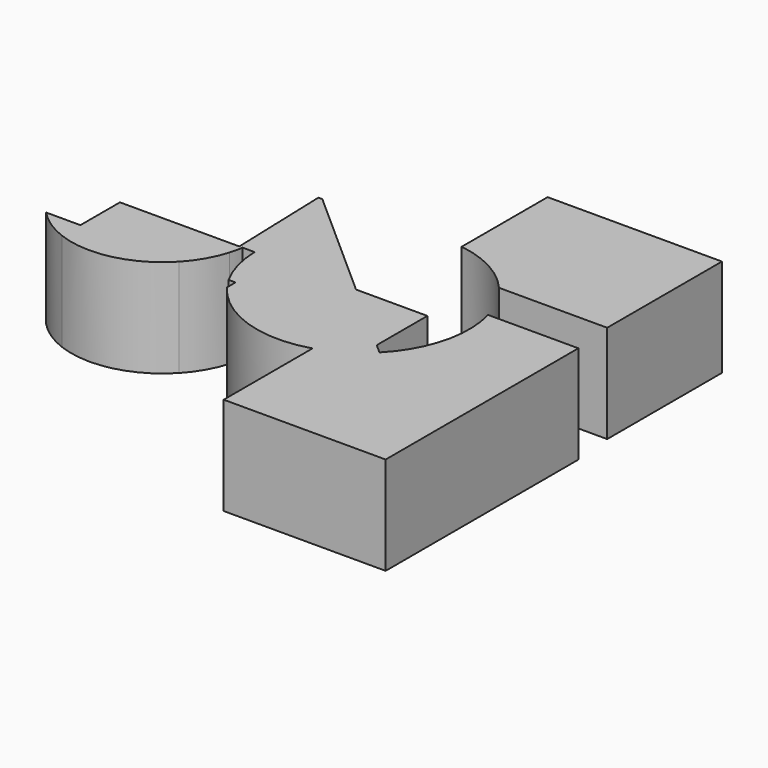
from build123d import *

# Parameters (mm, degrees)
F1_DEPTH = 25.4


with BuildPart() as f1:
    # F0 (on Top) → F1 (new body)
    with BuildSketch(Plane.XY):
        with BuildLine():
            Line((13.2460994646, 45.5441685695), (13.2460994646, 33.7760651119))
            ThreePointArc((13.2460994646, 33.7760651119), (22.6737645437, 30.6819062002), (30.3930181569, 24.4475007057))
            Line((30.3930181569, 24.4475007057), (58.4073029459, 24.4475007057))
            Line((58.4073029459, 24.4475007057), (58.4073029459, 61.6076998413))
            Line((58.4073029459, 61.6076998413), (13.2460994646, 61.6076998413))
            Line((13.2460994646, 61.6076998413), (13.2460994646, 45.5441685695))
        make_face()
    extrude(amount=F1_DEPTH)


with BuildPart() as f1b:
    # F0 (on Top) → F1, piece 2 (new body)
    with BuildSketch(Plane.XY):
        with BuildLine():
            Line((-22.3447246047, 17.3264372072), (-22.3572407322, 17.7158277661))
            Line((-22.3572407322, 17.7158277661), (-22.49079062, 17.7128031157))
            ThreePointArc((-22.49079062, 17.7128031157), (-22.4169140994, 17.5199390524), (-22.3447246047, 17.3264372072))
        make_face()
        with BuildLine():
            Line((-52.895501256, -12.9677942328), (-52.895501256, -7.0231002755))
            Line((-52.895501256, -7.0231002755), (-61.7882507086, -7.0231002755))
            ThreePointArc((-61.7882507086, -7.0231002755), (-57.6823790196, -10.5048104309), (-52.895501256, -12.9677942328))
        make_face()
        Polygon((26.7589017749, 5.7785003446), (8.2760952747, 5.7785003446), (26.7589017749, -10.6169944338), align=None)
        with BuildLine():
            Line((-21.7892645666, 32.4485003948), (-22.8307910154, 32.4485003948))
            Line((-22.8307910154, 32.4485003948), (-22.3572407322, 17.7158277661))
            Line((-22.3572407322, 17.7158277661), (-15.5672661641, 17.8696077435))
            ThreePointArc((-15.5672661641, 17.8696077435), (-13.9489846164, 20.9138140588), (-11.9630481341, 23.7319843068))
            Line((-11.9630481341, 23.7319843068), (-21.7892645666, 32.4485003948))
        make_face()
        with BuildLine():
            Line((-5.6085911059, 18.0951527453), (-11.9630481341, 23.7319843068))
            ThreePointArc((-11.9630481341, 23.7319843068), (-13.9489846164, 20.9138140588), (-15.5672661641, 17.8696077435))
            Line((-15.5672661641, 17.8696077435), (-5.6085911059, 18.0951527453))
        make_face()
        with BuildLine():
            ThreePointArc((29.1927550987, -12.7759863304), (28.0087511986, -13.9154041142), (26.7589017749, -14.9821817572))
            Line((26.7589017749, -14.9821817572), (26.7589017749, -38.4937003255))
            Line((26.7589017749, -38.4937003255), (17.5133012235, -38.4937003255))
            Line((17.5133012235, -38.4937003255), (17.5133012235, -48.6283004284))
            Line((17.5133012235, -48.6283004284), (59.4741031528, -48.6283004284))
            Line((59.4741031528, -48.6283004284), (59.4741031528, 13.7795004994))
            Line((59.4741031528, 13.7795004994), (36.0706472526, 13.7795004994))
            ThreePointArc((36.0706472526, 13.7795004994), (36.1732299385, -0.4155016744), (29.1927550987, -12.7759863304))
        make_face()
        with BuildLine():
            Line((29.1927550987, -12.7759863304), (26.7589017749, -10.6169944338))
            Line((26.7589017749, -10.6169944338), (26.7589017749, -14.9821817572))
            ThreePointArc((26.7589017749, -14.9821817572), (28.0087511986, -13.9154041142), (29.1927550987, -12.7759863304))
        make_face()
        with BuildLine():
            ThreePointArc((-21.1313416307, 5.7785003446), (-21.0183081354, 11.6280928505), (-22.3447246047, 17.3264372072))
            Line((-22.3447246047, 17.3264372072), (-21.9735408481, 5.7785003446))
            Line((-21.9735408481, 5.7785003446), (-21.1313416307, 5.7785003446))
        make_face()
        with BuildLine():
            Line((-5.6085911059, 18.0951527453), (-15.5672661641, 17.8696077435))
            ThreePointArc((-15.5672661641, 17.8696077435), (-17.4789700619, 11.9631153269), (-18.0191570476, 5.7785003446))
            Line((-18.0191570476, 5.7785003446), (8.2760952747, 5.7785003446))
            Line((8.2760952747, 5.7785003446), (-5.6085911059, 18.0951527453))
        make_face()
        with BuildLine():
            Line((26.7589017749, -38.4937003255), (26.7589017749, -14.9821817572))
            ThreePointArc((26.7589017749, -14.9821817572), (22.3698365424, -17.8653965252), (17.5133012235, -19.8631166534))
            Line((17.5133012235, -19.8631166534), (17.5133012235, -38.4937003255))
            Line((17.5133012235, -38.4937003255), (26.7589017749, -38.4937003255))
        make_face()
        with BuildLine():
            Line((-21.8658822799, 2.4291233142), (-21.9735408481, 5.7785003446))
            Line((-21.9735408481, 5.7785003446), (-52.895501256, 5.7785003446))
            Line((-52.895501256, 5.7785003446), (-52.895501256, -7.0231002755))
            Line((-52.895501256, -7.0231002755), (-27.2895498037, -7.0231002755))
            ThreePointArc((-27.2895498037, -7.0231002755), (-24.0258554325, -2.6136450257), (-21.8658822799, 2.4291233142))
        make_face()
        with BuildLine():
            Line((-21.1313416307, 5.7785003446), (-21.9735408481, 5.7785003446))
            Line((-21.9735408481, 5.7785003446), (-21.8658822799, 2.4291233142))
            ThreePointArc((-21.8658822799, 2.4291233142), (-21.4378295751, 4.0904818493), (-21.1313416307, 5.7785003446))
        make_face()
        with BuildLine():
            ThreePointArc((-52.895501256, -12.9677942328), (-39.1905271607, -13.8806811479), (-27.2895498037, -7.0231002755))
            Line((-27.2895498037, -7.0231002755), (-52.895501256, -7.0231002755))
            Line((-52.895501256, -7.0231002755), (-52.895501256, -12.9677942328))
        make_face()
        with BuildLine():
            Line((-15.5672661641, 17.8696077435), (-22.3572407322, 17.7158277661))
            Line((-22.3572407322, 17.7158277661), (-22.3447246047, 17.3264372072))
            ThreePointArc((-22.3447246047, 17.3264372072), (-21.0183081354, 11.6280928505), (-21.1313416307, 5.7785003446))
            Line((-21.1313416307, 5.7785003446), (-18.0191570476, 5.7785003446))
            ThreePointArc((-18.0191570476, 5.7785003446), (-17.4789700619, 11.9631153269), (-15.5672661641, 17.8696077435))
        make_face()
        with BuildLine():
            Line((8.2760952747, 5.7785003446), (-18.0191570476, 5.7785003446))
            ThreePointArc((-18.0191570476, 5.7785003446), (-17.0354792881, -0.8384884455), (-14.4854324071, -7.0231002755))
            Line((-14.4854324071, -7.0231002755), (-12.7127002925, -7.0231002755))
            Line((-12.7127002925, -7.0231002755), (-12.7127002925, -9.7748717792))
            ThreePointArc((-12.7127002925, -9.7748717792), (0.7931425522, -19.6342973866), (17.5133012235, -19.8631166534))
            ThreePointArc((17.5133012235, -19.8631166534), (22.3698365424, -17.8653965252), (26.7589017749, -14.9821817572))
            Line((26.7589017749, -14.9821817572), (26.7589017749, -10.6169944338))
            Line((26.7589017749, -10.6169944338), (8.2760952747, 5.7785003446))
        make_face()
    extrude(amount=F1_DEPTH)


solid = Compound([f1.part, f1b.part])
